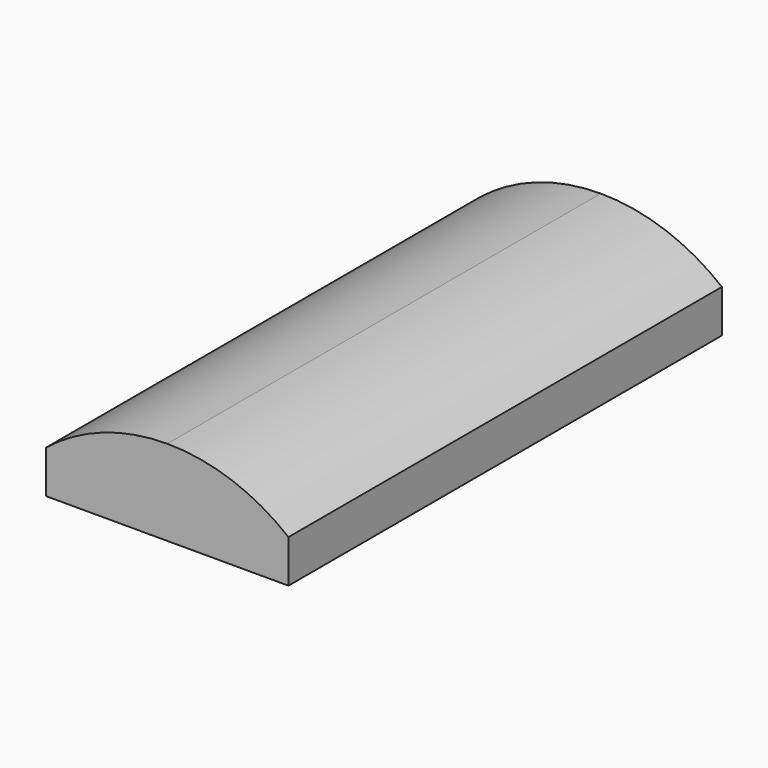
from build123d import *

# Parameters (mm, degrees)
F0_W     = 8.5
F0_H     = 19
F1_DEPTH = 3
F3_DEPTH = 25


with BuildPart() as f1:
    # F0 (on Top) → F1 (new body)
    with BuildSketch(Plane.XY):
        Rectangle(F0_W, F0_H)
    extrude(amount=F1_DEPTH)

    # F2 (on face) → F3 (cut)
    with BuildSketch(Plane(origin=(0, 9.5, 0), x_dir=(-1, 0, 0), z_dir=(0, 1, 0))):
        with BuildLine():
            Line((-4.25, 3), (-4.25, 1.5))
            ThreePointArc((-4.25, 1.5), (-2.25347, 2.613997), (0, 3))
            Line((0, 3), (-4.25, 3))
        make_face()
        with BuildLine():
            Line((4.25, 3), (0, 3))
            ThreePointArc((0, 3), (2.25347, 2.613997), (4.25, 1.5))
            Line((4.25, 1.5), (4.25, 3))
        make_face()
    extrude(amount=-F3_DEPTH, mode=Mode.SUBTRACT)


solid = f1.part
